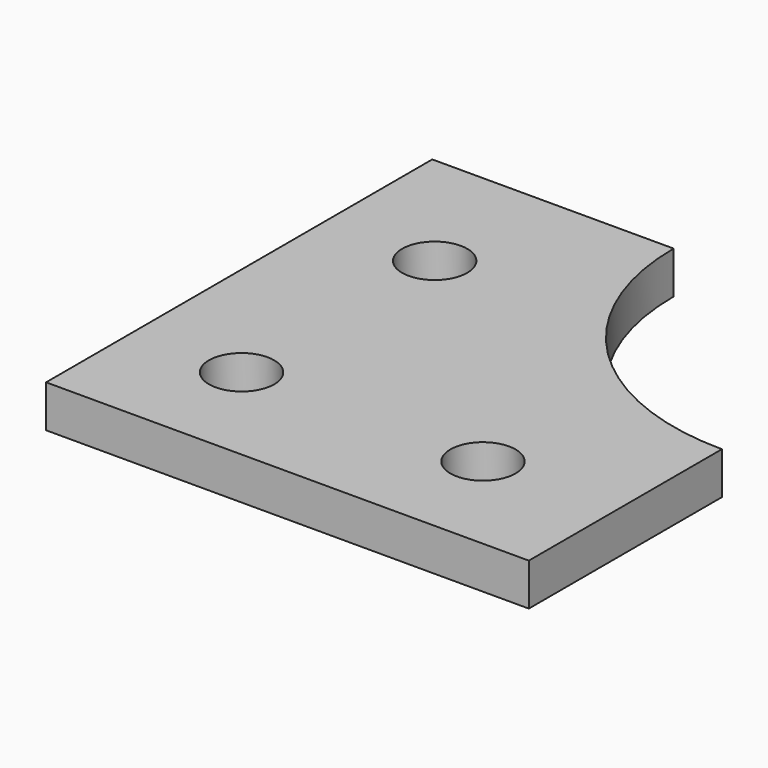
from build123d import *

# Parameters (mm, degrees)
PAD_DEPTH       = 3.5
SKETCH001_R     = 2.7
POCKET_DEPTH    = 5
SKETCH002_R     = 20
POCKET001_DEPTH = 5


with BuildPart() as part:
    # Sketch → Pad (new body)
    with BuildSketch(Plane.XY):
        Polygon((0, 0), (40, 0), (40, 20), (20, 40), (0, 40), align=None)
    extrude(amount=PAD_DEPTH)

    # Sketch001 → Pocket (cut)
    with BuildSketch(Plane.XY.offset(3.5)):
        with Locations((9, 29)):
            Circle(SKETCH001_R)
        with Locations((29, 9)):
            Circle(SKETCH001_R)
        with Locations((9, 9)):
            Circle(SKETCH001_R)
    extrude(amount=-POCKET_DEPTH, mode=Mode.SUBTRACT)

    # Sketch002 → Pocket001 (cut)
    with BuildSketch(Plane.XY.offset(3.5)):
        with Locations((40, 40)):
            Circle(SKETCH002_R)
    extrude(amount=-POCKET001_DEPTH, mode=Mode.SUBTRACT)


solid = part.part
